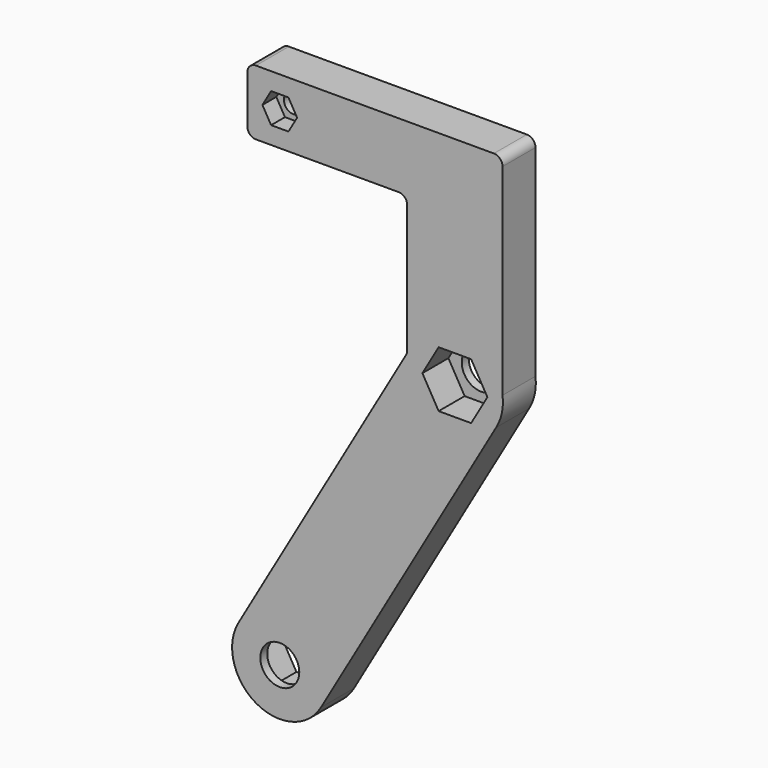
from build123d import *

# Parameters (mm, degrees)
PAD002_DEPTH              = 7.5
BODY002_PLACEMENT_ANGLE   = 90
CYLINDER015_R             = 4.5
CYLINDER015_DEPTH         = 9.5
COMPOUND_PLACEMENT_ANGLE  = 30
CYLINDER014_R             = 4.5
CYLINDER014_DEPTH         = 9.5
PAD001_DEPTH              = 4
BODY001_PLACEMENT_ANGLE   = 90
PAD_DEPTH                 = 7.5
BODY_PLACEMENT_ANGLE      = 90
CYLINDER016_R             = 2.25
CYLINDER016_DEPTH         = 9.5
BOX002_W                  = 58.914519
BOX002_H                  = 9.5
BOX002_DEPTH              = 15
BOX_W                     = 22
BOX_H                     = 9.5
BOX_DEPTH                 = 80.829038
CYLINDER013_R             = 11
CYLINDER013_DEPTH         = 9.5
CYLINDER012_R             = 11
CYLINDER012_DEPTH         = 9.5
FUSION005_PLACEMENT_ANGLE = 30
BOX001_W                  = 22
BOX001_H                  = 9.5
BOX001_DEPTH              = 50
FILLET_R                  = 2
FILLET001_R               = 2
FILLET002_R               = 2


with BuildPart() as m8press001:
    # Sketch002 → Pad002 (new body)
    with BuildSketch(Plane.XY):
        Polygon((7.5, 0), (3.75, 6.495191), (-3.75, 6.495191), (-7.5, 0), (-3.75, -6.495191), (3.75, -6.495191), align=None)
    extrude(amount=PAD002_DEPTH)


with BuildPart() as m8press001_1:
    # Body002 placement: moved
    add(m8press001.part.moved(Location((40.414519, -2, 70))).rotate(Axis((40.414519, -2, 70), (1, 0, 0)), BODY002_PLACEMENT_ANGLE))


with BuildPart() as compound:
    # Cylinder015 → Cylinder015 (new body)
    with BuildSketch(Plane(origin=(0, 0, 81), x_dir=(1, 0, 0), z_dir=(0, -1, 0))):
        Circle(CYLINDER015_R)
    extrude(amount=CYLINDER015_DEPTH)


with BuildPart() as compound_1:
    # Compound placement: moved
    add(compound.part.rotate(Axis((0, 0, 0), (0, 1, 0)), COMPOUND_PLACEMENT_ANGLE))


with BuildPart() as cylinder014:
    # Cylinder014 → Cylinder014 (new body)
    with BuildSketch(Plane.XZ):
        Circle(CYLINDER014_R)
    extrude(amount=CYLINDER014_DEPTH)


with BuildPart() as m4press:
    # Sketch001 → Pad001 (new body)
    with BuildSketch(Plane.XY):
        Polygon((4, 0), (2, 3.464102), (-2, 3.464102), (-4, 0), (-2, -3.464102), (2, -3.464102), align=None)
    extrude(amount=PAD001_DEPTH)


with BuildPart() as m4press_1:
    # Body001 placement: moved
    add(m4press.part.moved(Location((0, -5.5, 112.5))).rotate(Axis((0, -5.5, 112.5), (1, 0, 0)), BODY001_PLACEMENT_ANGLE))


with BuildPart() as m8press:
    # Sketch → Pad (new body)
    with BuildSketch(Plane.XY):
        Polygon((7.5, 0), (3.75, 6.495191), (-3.75, 6.495191), (-7.5, 0), (-3.75, -6.495191), (3.75, -6.495191), align=None)
    extrude(amount=PAD_DEPTH)


with BuildPart() as m8press_1:
    # Body placement: moved
    add(m8press.part.rotate(Axis((0, 0, 0), (1, 0, 0)), BODY_PLACEMENT_ANGLE))


with BuildPart() as fusion006:
    # Cylinder016 → Cylinder016 (new body)
    with BuildSketch(Plane(origin=(0, 0, 112.5), x_dir=(1, 0, 0), z_dir=(0, -1, 0))):
        Circle(CYLINDER016_R)
    extrude(amount=CYLINDER016_DEPTH)

    # Fusion006: union M8Press001, Compound, Cylinder014, M4Press, M8Press
    add(m8press001_1.part)
    add(compound_1.part)
    add(cylinder014.part)
    add(m4press_1.part)
    add(m8press_1.part)


with BuildPart() as cube002:
    # Box002 → Box002 (new body)
    with BuildSketch(Plane(origin=(-7.5, -9.5, 105), x_dir=(1, 0, 0), z_dir=(0, 0, 1))):
        with Locations((29.457259, 4.75)):
            Rectangle(BOX002_W, BOX002_H)
    extrude(amount=BOX002_DEPTH)


with BuildPart() as cube:
    # Box → Box (new body)
    with BuildSketch(Plane(origin=(-11, -9.5, 0), x_dir=(1, 0, 0), z_dir=(0, 0, 1))):
        with Locations((11, 4.75)):
            Rectangle(BOX_W, BOX_H)
    extrude(amount=BOX_DEPTH)


with BuildPart() as cylinder013:
    # Cylinder013 → Cylinder013 (new body)
    with BuildSketch(Plane(origin=(0, 0, 81), x_dir=(1, 0, 0), z_dir=(0, -1, 0))):
        Circle(CYLINDER013_R)
    extrude(amount=CYLINDER013_DEPTH)


with BuildPart() as fusion005:
    # Cylinder012 → Cylinder012 (new body)
    with BuildSketch(Plane.XZ):
        Circle(CYLINDER012_R)
    extrude(amount=CYLINDER012_DEPTH)

    # Fusion005: union Cube, Cylinder013
    add(cube.part)
    add(cylinder013.part)


with BuildPart() as fusion005_1:
    # Fusion005 placement: moved
    add(fusion005.part.rotate(Axis((0, 0, 0), (0, 1, 0)), FUSION005_PLACEMENT_ANGLE))


with BuildPart() as fillet002:
    # Box001 → Box001 (new body)
    with BuildSketch(Plane(origin=(29.414519, -9.5, 70), x_dir=(1, 0, 0), z_dir=(0, 0, 1))):
        with Locations((11, 4.75)):
            Rectangle(BOX001_W, BOX001_H)
    extrude(amount=BOX001_DEPTH)

    # Fusion007: union Cube002, Fusion005
    add(cube002.part)
    add(fusion005_1.part)

    # Cut005: cut Fusion006
    add(fusion006.part, mode=Mode.SUBTRACT)

    # Fillet
    fillet_edges = [fillet002.edges().sort_by_distance(p)[0] for p in [
        (51.414519, -4.75, 120),
        (-7.5, -4.75, 105),
        (-7.5, -4.75, 120),
    ]]
    fillet(fillet_edges, radius=FILLET_R)

    # Fillet001
    fillet001_edges = [fillet002.edges().sort_by_distance(p)[0] for p in [
        (29.414519, -4.75, 105),
    ]]
    fillet(fillet001_edges, radius=FILLET001_R)

    # Fillet002
    fillet002_edges = [fillet002.edges().sort_by_distance(p)[0] for p in [
        (29.414519, -4.75, 72.947441),
    ]]
    fillet(fillet002_edges, radius=FILLET002_R)


solid = fillet002.part
